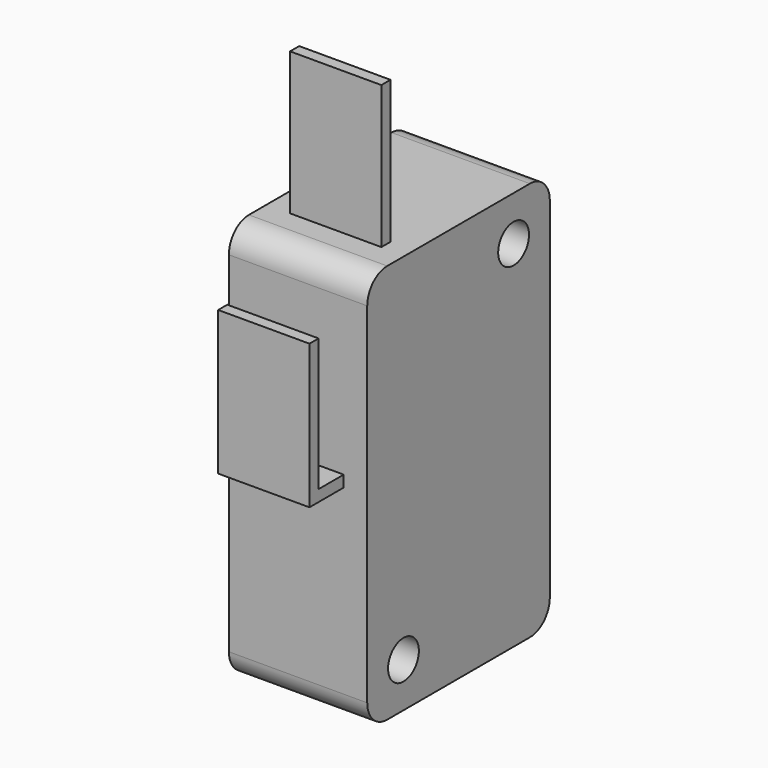
from build123d import *

# Parameters (mm, degrees)
SKETCH041_R             = 1.35
PAD041_DEPTH            = 9.7
SKETCH042_W             = 2.9
SKETCH042_H             = 4.1
PAD042_DEPTH            = 3
SKETCH043_W             = 0.8
SKETCH043_H             = 6.4
PAD043_DEPTH            = 10
SKETCH044_W             = 0.8
SKETCH044_H             = 6.4
PAD044_DEPTH            = 3
SKETCH045_W             = 0.8
SKETCH045_H             = 6.4
PAD045_DEPTH            = 9.3
FILLET005_R             = 1.2
BODY009_PLACEMENT_ANGLE = 90


with BuildPart() as part:
    # Sketch041 → Pad041 (new body)
    with BuildSketch(Plane.XY):
        with BuildLine():
            ThreePointArc((-12.25, 8), (-13.487437, 7.487437), (-14, 6.25))
            Line((-14, -6.25), (-14, 6.25))
            ThreePointArc((-14, -6.25), (-13.487437, -7.487437), (-12.25, -8))
            Line((12.25, -8), (-12.25, -8))
            ThreePointArc((12.25, -8), (13.487437, -7.487437), (14, -6.25))
            Line((14, 6.25), (14, -6.25))
            ThreePointArc((14, 6.25), (13.487437, 7.487437), (12.25, 8))
            Line((-12.25, 8), (12.25, 8))
        make_face()
        with Locations((10.877931, -4.825)):
            Circle(SKETCH041_R, mode=Mode.SUBTRACT)
        with Locations((-10.877931, 4.825)):
            Circle(SKETCH041_R, mode=Mode.SUBTRACT)
    extrude(amount=PAD041_DEPTH)

    # Sketch042 (on Face8 of Pad041) → Pad042 (join)
    with BuildSketch(Plane(origin=(0, 8, 0), x_dir=(-1, 0, 0), z_dir=(0, 1, 0))):
        with Locations((-9.45, 4.85)):
            Rectangle(SKETCH042_W, SKETCH042_H)
    extrude(amount=PAD042_DEPTH)

    # Sketch043 (on Face3 of Pad042) → Pad043 (join)
    with BuildSketch(Plane(origin=(-14, 0, 0), x_dir=(0, -1, 0), z_dir=(-1, 0, 0))):
        with Locations((4.3, 4.85)):
            Rectangle(SKETCH043_W, SKETCH043_H)
    extrude(amount=PAD043_DEPTH)

    # Sketch044 (on Face16 of Pad043) → Pad044 (join)
    with BuildSketch(Plane.XZ.offset(8)):
        with Locations((-0.9, 4.85)):
            Rectangle(SKETCH044_W, SKETCH044_H)
    extrude(amount=PAD044_DEPTH)

    # Sketch045 (on Face23 of Pad044) → Pad045 (join)
    with BuildSketch(Plane(origin=(-1.3, 0, 0), x_dir=(0, -1, 0), z_dir=(-1, 0, 0))):
        with Locations((10.6, 4.85)):
            Rectangle(SKETCH045_W, SKETCH045_H)
    extrude(amount=PAD045_DEPTH)

    # Fillet005
    fillet005_edges = [part.edges().sort_by_distance(p)[0] for p in [
        (10.9, 11, 4.85),
        (8, 11, 4.85),
    ]]
    fillet(fillet005_edges, radius=FILLET005_R)


with BuildPart() as part_1:
    # Body009 placement: moved
    add(part.part.moved(Location((145.8, 0, -97))).rotate(Axis((145.8, 0, -97), (0, 1, 0)), BODY009_PLACEMENT_ANGLE))


solid = part_1.part
